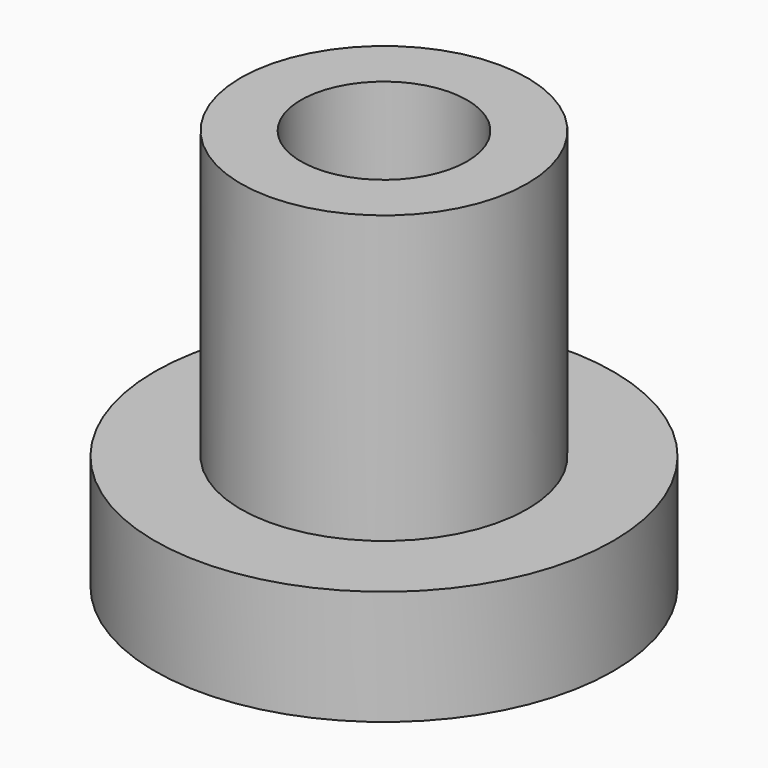
from build123d import *

# Parameters (mm, degrees)
F0_R     = 3.175
F1_DEPTH = 8.89
F2_R     = 1.8415
F3_DEPTH = 5.08
F0_R_2   = 5.08
F4_DEPTH = 2.54


with BuildPart() as f1:
    # F0 (on Top) → F1 (new body)
    with BuildSketch(Plane.XY):
        Circle(F0_R)
    extrude(amount=F1_DEPTH)

    # F2 (on face) → F3 (cut)
    with BuildSketch(Plane.XY.offset(8.89)):
        Circle(F2_R)
    extrude(amount=-F3_DEPTH, mode=Mode.SUBTRACT)

    # F0 (on Top) → F4 (join)
    with BuildSketch(Plane.XY):
        Circle(F0_R_2)
        Circle(F0_R, mode=Mode.SUBTRACT)
    extrude(amount=F4_DEPTH)


solid = f1.part
